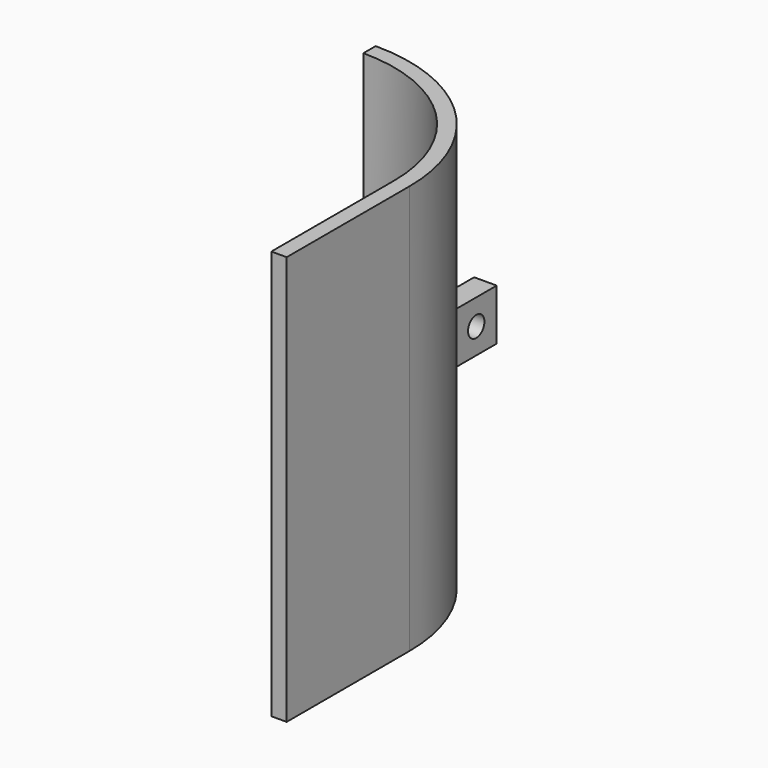
from build123d import *

# Parameters (mm, degrees)
F1_DEPTH = 80
F2_W     = 10
F2_H     = 10
F3_DEPTH = 62.75
F4_DEPTH = 10
F5_R     = 2
F6_DEPTH = 25


with BuildPart() as f1:
    # F0 (on Top) → F1 (new body)
    with BuildSketch(Plane.XY):
        with BuildLine():
            ThreePointArc((0, 60), (21.2132034356, 51.2132034356), (30, 30))
            Line((30, 30), (30, 0))
            Line((30, 0), (33, 0))
            Line((33, 0), (33, 30))
            ThreePointArc((33, 30), (23.3345237792, 53.3345237792), (0, 63))
            Line((0, 63), (0, 60))
        make_face()
    extrude(amount=F1_DEPTH)

    # F2 (on Right) → F3 (cut)
    with BuildSketch(Plane.YZ):
        with Locations((58, 41.47)):
            Rectangle(F2_W, F2_H)
    extrude(amount=F3_DEPTH, mode=Mode.SUBTRACT)

    # F4 (add): a face of the model
    f4_faces = [f1.faces().sort_by_distance(p)[0] for p in [
        (21.4628397083, 53, 41.47),
    ]]
    extrude(f4_faces, amount=F4_DEPTH)

    # F5 (on face) → F6 (cut)
    with BuildSketch(Plane.YZ.offset(23.6643191324)):
        with Locations((58, 41.47)):
            Circle(F5_R)
    extrude(amount=-F6_DEPTH, mode=Mode.SUBTRACT)


solid = f1.part
